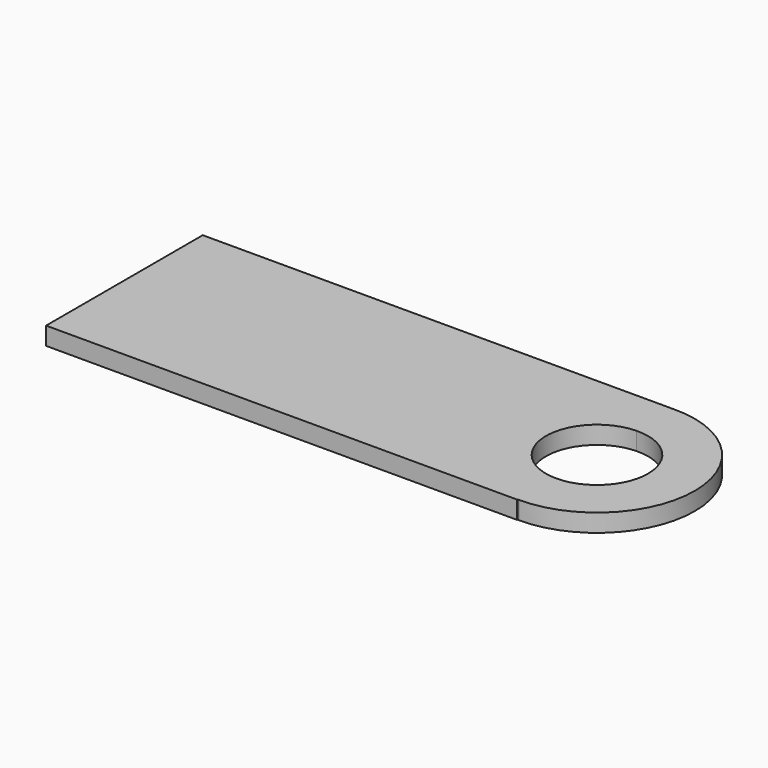
from build123d import *

# Parameters (mm, degrees)
F1_DEPTH = 4.572
F2_ANGLE = 90


with BuildPart() as f1:
    # F0 (on Top) → F1 (new body)
    with BuildSketch(Plane.XY):
        with BuildLine():
            ThreePointArc((15.260609854, 47.589083421), (15.2629721134, 47.7874985962), (15.2637595498, 47.9859262705))
            ThreePointArc((15.2637595498, 47.9859262705), (-9.9361567692, 72.9866274788), (-34.7360680438, 47.589083421))
            Line((-34.7360680438, 47.589083421), (-22.7907470992, 47.589083421))
            ThreePointArc((-22.7907470992, 47.589083421), (-9.936173433, 61.0434675058), (3.3213200001, 47.9859262705))
            ThreePointArc((3.3213200001, 47.9859262705), (3.3198121404, 47.7874819324), (3.3152889093, 47.589083421))
            Line((3.3152889093, 47.589083421), (15.260609854, 47.589083421))
        make_face()
        with BuildLine():
            Line((-22.7907470992, 47.589083421), (-34.7360680438, 47.589083421))
            ThreePointArc((-34.7360680438, 47.589083421), (-9.7377290949, 22.9844376258), (15.260609854, 47.589083421))
            Line((15.260609854, 47.589083421), (3.3152889093, 47.589083421))
            ThreePointArc((3.3152889093, 47.589083421), (-9.7377290949, 34.9268771755), (-22.7907470992, 47.589083421))
        make_face()
        with BuildLine():
            ThreePointArc((15.260609854, 47.589083421), (-9.7377290949, 22.9844376258), (-34.7360680438, 47.589083421))
            Line((-34.7360680438, 47.589083421), (-34.7360680438, -72.8823840618))
            Line((-34.7360680438, -72.8823840618), (15.3595097363, -72.8823840618))
            Line((15.3595097363, -72.8823840618), (15.3595097363, 47.589083421))
            Line((15.3595097363, 47.589083421), (15.260609854, 47.589083421))
        make_face()
    extrude(amount=F1_DEPTH)


with BuildPart() as f1_1:
    # F2: moved
    add(f1.part.rotate(Axis((-34.7360680438, 47.589083421, 2.286), (0, 0, -1)), F2_ANGLE))


solid = f1_1.part
